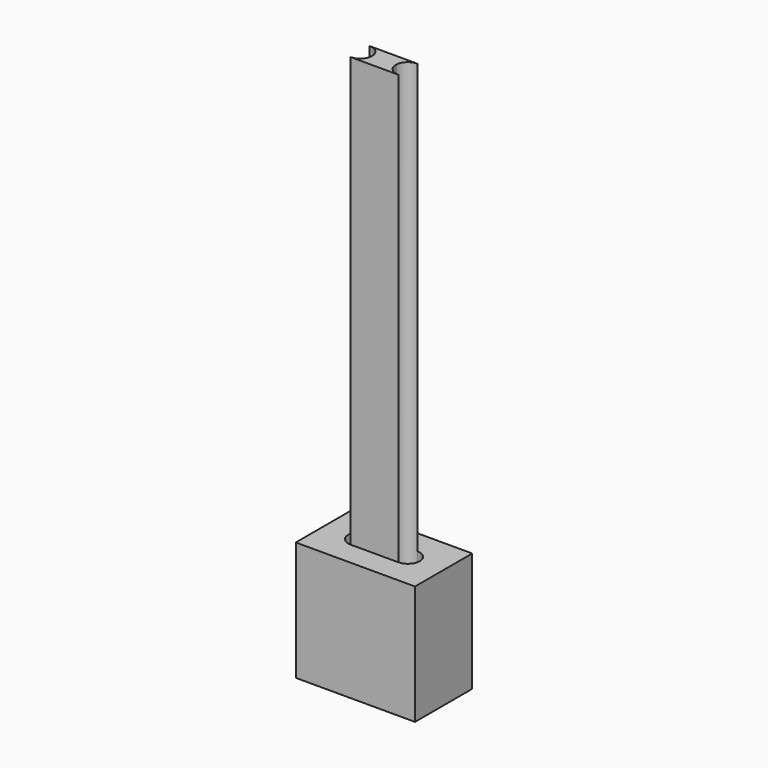
from build123d import *

# Parameters (mm, degrees)
F0_W     = 5
F0_H     = 3
F1_DEPTH = 5
F2_DEPTH = 23


with BuildPart() as f1:
    # F0 (on Top) → F1 (new body)
    with BuildSketch(Plane.XY):
        Rectangle(F0_W, F0_H)
        with BuildLine():
            Line((-1, 0.5), (1, 0.5))
            ThreePointArc((1, 0.5), (1.353553, 0.353553), (1.5, 0))
            ThreePointArc((1.5, 0), (1.353553, -0.353553), (1, -0.5))
            Line((1, -0.5), (-1, -0.5))
            ThreePointArc((-1, -0.5), (-1.5, 0), (-1, 0.5))
        make_face(mode=Mode.SUBTRACT)
        with BuildLine():
            ThreePointArc((1, -0.5), (0.646447, -0.353553), (0.5, 0))
            ThreePointArc((0.5, 0), (0.646447, 0.353553), (1, 0.5))
            Line((1, 0.5), (-1, 0.5))
            ThreePointArc((-1, 0.5), (-0.646447, 0.353553), (-0.5, 0))
            ThreePointArc((-0.5, 0), (-0.646447, -0.353553), (-1, -0.5))
            Line((-1, -0.5), (1, -0.5))
        make_face()
    extrude(amount=F1_DEPTH)

    # F0 (on Top) → F2 (join)
    with BuildSketch(Plane.XY):
        with BuildLine():
            ThreePointArc((1, -0.5), (0.646447, -0.353553), (0.5, 0))
            ThreePointArc((0.5, 0), (0.646447, 0.353553), (1, 0.5))
            Line((1, 0.5), (-1, 0.5))
            ThreePointArc((-1, 0.5), (-0.646447, 0.353553), (-0.5, 0))
            ThreePointArc((-0.5, 0), (-0.646447, -0.353553), (-1, -0.5))
            Line((-1, -0.5), (1, -0.5))
        make_face()
    extrude(amount=F2_DEPTH)


solid = f1.part
